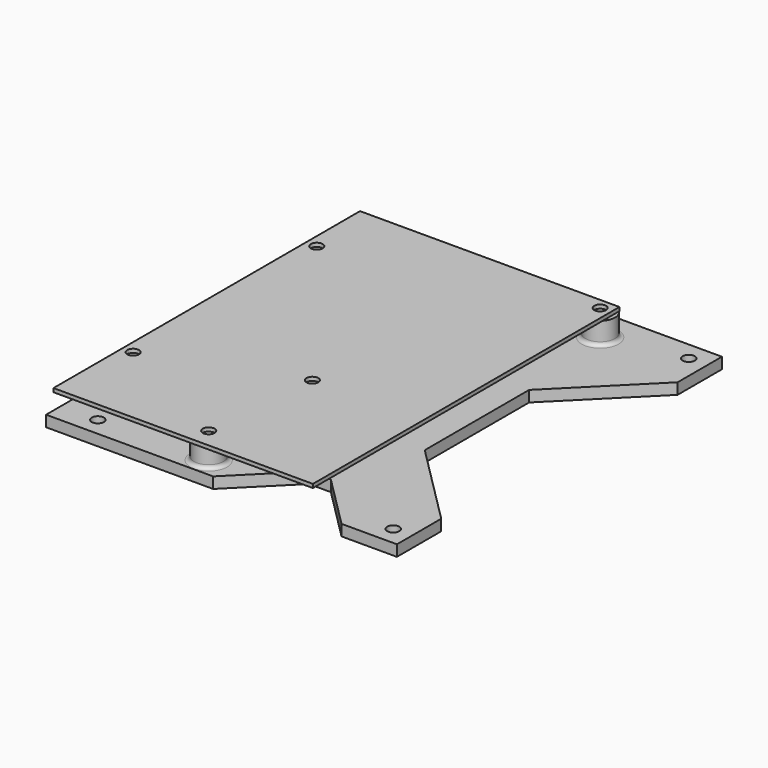
from build123d import *

# Parameters (mm, degrees)
SKETCH_R      = 1.65
PAD_DEPTH     = 3
SKETCH004_R   = 1.6
SKETCH004_W   = 33.41824
SKETCH004_H   = 34.264278
POCKET_DEPTH  = 5
SKETCH005_R   = 4
SKETCH005_R_2 = 2.2
PAD001_DEPTH  = 6
FILLET_R      = 1
SKETCH001_W   = 70.25
SKETCH001_H   = 103.75
SKETCH001_R   = 1.6
PAD002_DEPTH  = 1


with BuildPart() as body:
    # Sketch → Pad (new body)
    with BuildSketch(Plane.XY):
        Polygon((0, 0), (45.227897, 0), (59.645666, 14.417769), (65.582231, 14.417769), (80, 0), (95, 0), (95, 15), (72.661282, 37.338718), (72.661282, 72.661282), (95, 95), (95, 110), (62.462513, 110), (45.355259, 92.892746), (36.176589, 92.892746), (19.069334, 110), (0, 110), (0, 81.026264), (17.932659, 63.093604), (17.932659, 44.097598), (0, 26.164938), align=None)
        with Locations((10, 105)):
            Circle(SKETCH_R, mode=Mode.SUBTRACT)
        with Locations((90, 105)):
            Circle(SKETCH_R, mode=Mode.SUBTRACT)
        with Locations((10, 5)):
            Circle(SKETCH_R, mode=Mode.SUBTRACT)
        with Locations((90, 5)):
            Circle(SKETCH_R, mode=Mode.SUBTRACT)
    extrude(amount=PAD_DEPTH)

    # Sketch004 (on Face26 of Pad) → Pocket (cut)
    with BuildSketch(Plane(origin=(2, 0, 3), x_dir=(1, 0, 0), z_dir=(0, 0, 1))):
        with Locations((2.895, 85.5)):
            Circle(SKETCH004_R)
        with Locations((2.895, 23.35)):
            Circle(SKETCH004_R)
        with Locations((40.515, 37.005)):
            Circle(SKETCH004_R)
        with Locations((37.875, 5.205)):
            Circle(SKETCH004_R)
        with Locations((67.355, 100.855)):
            Circle(SKETCH004_R)
        with Locations((45.661379, 63.617235)):
            Rectangle(SKETCH004_W, SKETCH004_H)
    extrude(amount=-POCKET_DEPTH, mode=Mode.SUBTRACT)

    # Sketch005 (on Face5 of Pocket) → Pad001 (join)
    with BuildSketch(Plane.XY.offset(3)):
        with Locations((4.895, 85.5)):
            Circle(SKETCH005_R)
        with Locations((4.895, 85.5)):
            Circle(SKETCH005_R_2, mode=Mode.SUBTRACT)
        with Locations((69.355, 100.855)):
            Circle(SKETCH005_R)
        with Locations((69.355, 100.855)):
            Circle(SKETCH005_R_2, mode=Mode.SUBTRACT)
        with Locations((42.515, 37.005)):
            Circle(SKETCH005_R)
        with Locations((42.515, 37.005)):
            Circle(SKETCH005_R_2, mode=Mode.SUBTRACT)
        with Locations((4.895, 23.35)):
            Circle(SKETCH005_R)
        with Locations((4.895, 23.35)):
            Circle(SKETCH005_R_2, mode=Mode.SUBTRACT)
        with Locations((39.875, 5.205)):
            Circle(SKETCH005_R)
        with Locations((39.875, 5.205)):
            Circle(SKETCH005_R_2, mode=Mode.SUBTRACT)
    extrude(amount=PAD001_DEPTH)

    # Fillet
    fillet_edges = [body.edges().sort_by_distance(p)[0] for p in [
        (0.895, 85.5, 3),
        (0.895, 23.35, 3),
        (38.515, 37.005, 3),
        (35.875, 5.205, 3),
        (65.355, 100.855, 3),
    ]]
    fillet(fillet_edges, radius=FILLET_R)


with BuildPart() as body001:
    # Sketch001 → Pad002 (new body)
    with BuildSketch(Plane.XY):
        with Locations((35.125, 51.875)):
            Rectangle(SKETCH001_W, SKETCH001_H)
        with Locations((2.895, 85.5)):
            Circle(SKETCH001_R, mode=Mode.SUBTRACT)
        with Locations((2.895, 23.35)):
            Circle(SKETCH001_R, mode=Mode.SUBTRACT)
        with Locations((40.515, 37.005)):
            Circle(SKETCH001_R, mode=Mode.SUBTRACT)
        with Locations((37.875, 5.205)):
            Circle(SKETCH001_R, mode=Mode.SUBTRACT)
        with Locations((67.355, 100.855)):
            Circle(SKETCH001_R, mode=Mode.SUBTRACT)
    extrude(amount=PAD002_DEPTH)


with BuildPart() as body001_1:
    # Body001 placement: moved
    add(body001.part.moved(Location((2, 0, 9))))


solid = Compound([body.part, body001_1.part])
